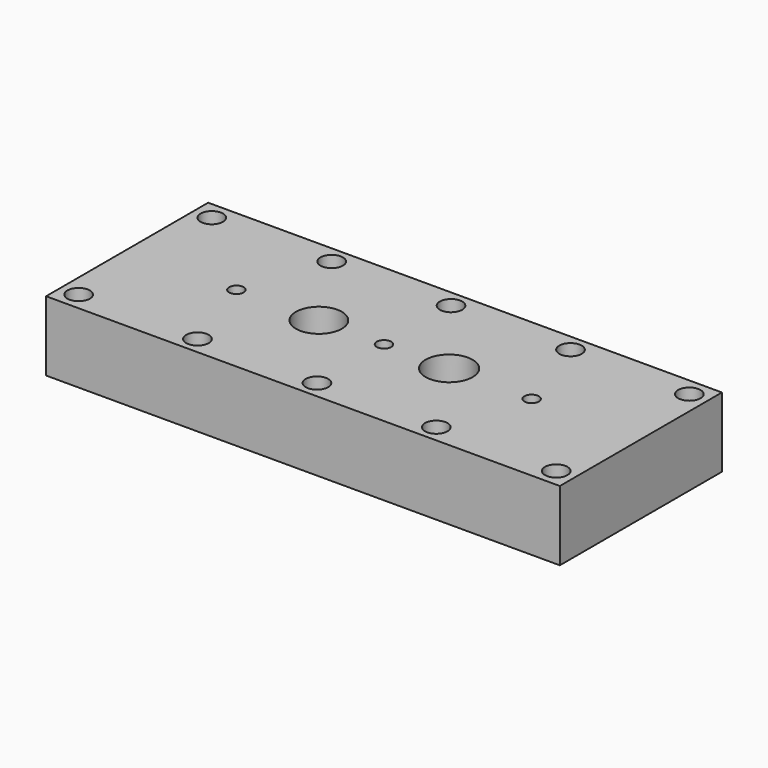
from build123d import *

# Parameters (mm, degrees)
F0_W     = 71
F0_H     = 28
F0_R     = 1.55
F0_W_2   = 61
F0_H_2   = 18
F0_R_2   = 1
F0_R_3   = 3.175
F0_R_4   = 3.25
F1_DEPTH = 9.65
F2_DEPTH = 4.65
F3_R     = 1


with BuildPart() as f1:
    # F0 (on Top) → F1 (new body)
    with BuildSketch(Plane.XY):
        Rectangle(F0_W, F0_H)
        with Locations((-33, -11.5)):
            Circle(F0_R, mode=Mode.SUBTRACT)
        with Locations((-16.5, -11.593945)):
            Circle(F0_R, mode=Mode.SUBTRACT)
        with Locations((0, -11.580119)):
            Circle(F0_R, mode=Mode.SUBTRACT)
        with Locations((16.5, -11.593945)):
            Circle(F0_R, mode=Mode.SUBTRACT)
        with Locations((33, -11.5)):
            Circle(F0_R, mode=Mode.SUBTRACT)
        with Locations((-33, 11.5)):
            Circle(F0_R, mode=Mode.SUBTRACT)
        with Locations((-16.5, 11.593945)):
            Circle(F0_R, mode=Mode.SUBTRACT)
        Rectangle(F0_W_2, F0_H_2, mode=Mode.SUBTRACT)
        with Locations((0, 11.580119)):
            Circle(F0_R, mode=Mode.SUBTRACT)
        with Locations((16.5, 11.593945)):
            Circle(F0_R, mode=Mode.SUBTRACT)
        with Locations((33, 11.5)):
            Circle(F0_R, mode=Mode.SUBTRACT)
        Rectangle(F0_W_2, F0_H_2)
        with Locations((-20.4, 0)):
            Circle(F0_R_2, mode=Mode.SUBTRACT)
        with Locations((-9, 0)):
            Circle(F0_R_3, mode=Mode.SUBTRACT)
        Circle(F0_R_2, mode=Mode.SUBTRACT)
        with Locations((9, 0)):
            Circle(F0_R_4, mode=Mode.SUBTRACT)
        with Locations((20.4, 0)):
            Circle(F0_R_2, mode=Mode.SUBTRACT)
    extrude(amount=F1_DEPTH)

    # F0 (on Top) → F2 (cut)
    with BuildSketch(Plane.XY):
        Rectangle(F0_W_2, F0_H_2)
        with Locations((-20.4, 0)):
            Circle(F0_R_2, mode=Mode.SUBTRACT)
        with Locations((-9, 0)):
            Circle(F0_R_3, mode=Mode.SUBTRACT)
        Circle(F0_R_2, mode=Mode.SUBTRACT)
        with Locations((9, 0)):
            Circle(F0_R_4, mode=Mode.SUBTRACT)
        with Locations((20.4, 0)):
            Circle(F0_R_2, mode=Mode.SUBTRACT)
    extrude(amount=F2_DEPTH, mode=Mode.SUBTRACT)

    # F3
    f3_edges = [f1.edges().sort_by_distance(p)[0] for p in [
        (-30.5, -9, 2.325),
        (30.5, -9, 2.325),
        (-30.5, 9, 2.325),
        (30.5, 9, 2.325),
    ]]
    fillet(f3_edges, radius=F3_R)


solid = f1.part
